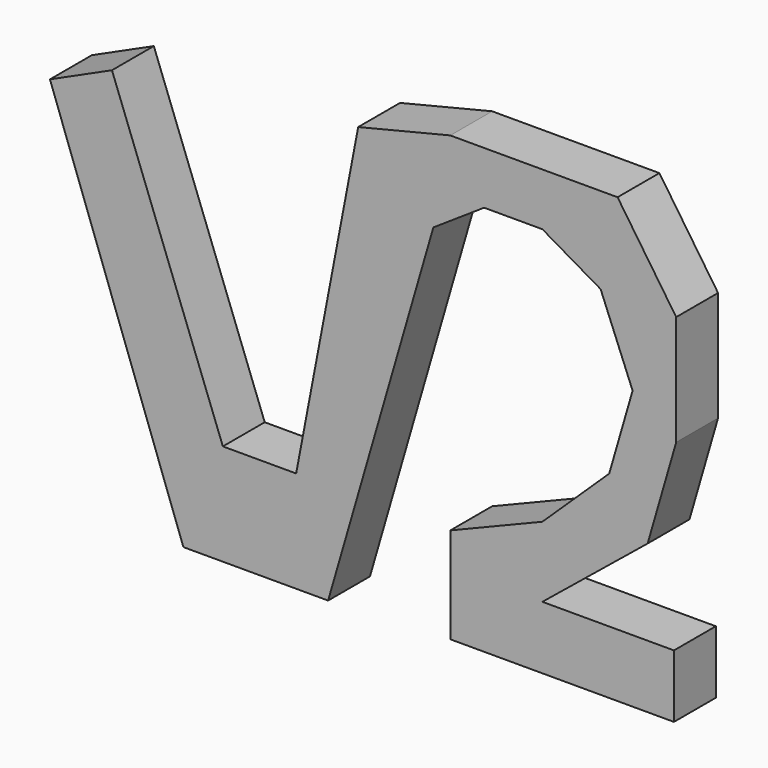
from build123d import *

# Parameters (mm, degrees)
F1_DEPTH = 8


with BuildPart() as f1:
    # F0 (on Front) → F1 (new body)
    with BuildSketch(Plane.XZ):
        Polygon((-59.924729, 50.152831), (-69.409214, 45.841698), (-49.003195, -10.490419), (-26.872721, -10.490419), (-10.777829, 44.979472), (-3.017792, 50.152831), (5.89188, 50.152831), (14.801553, 44.979472), (19.687502, 32.908306), (16.10984, 20.578151), (5.89188, 10.777828), (-8.191151, 5.029653), (-8.191151, -9.628194), (26.010493, -9.628194), (26.010493, 0), (5.89188, 0), (21.986771, 13.077099), (26.355926, 28.135076), (26.355926, 44.979472), (17.388232, 58.200277), (-8.191151, 58.200277), (-22.274179, 54.75137), (-31.75867, 5.029653), (-42.96761, 5.029653), align=None)
    extrude(amount=F1_DEPTH)


solid = f1.part
